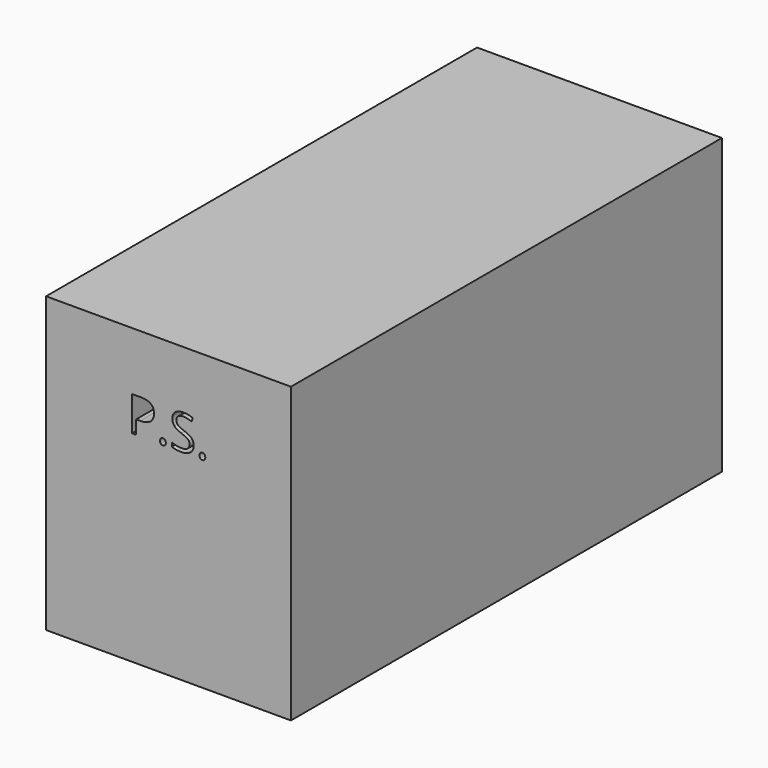
from build123d import *

# Parameters (mm, degrees)
F0_W     = 127
F0_H     = 152.4
F1_DEPTH = 279.4


with BuildPart() as f1:
    # F0 (on Front) → F1 (new body)
    with BuildSketch(Plane.XZ):
        with Locations((-63.5, 76.2)):
            Rectangle(F0_W, F0_H)
        with BuildLine():
            add(Edge.make_bspline(
                [(-77.7296743618, 122.2627671523), (-71.0107954947, 122.2627671523), (-71.0107954947, 117.0391527994)],
                knots=[0, 0, 0, 1, 1, 1], degree=2))
            add(Edge.make_bspline(
                [(-71.0107954947, 117.0391527994), (-71.0107954947, 114.3154951278), (-72.8690835458, 112.8496649544)],
                knots=[0, 0, 0, 1, 1, 1], degree=2))
            add(Edge.make_bspline(
                [(-72.8690835458, 112.8496649544), (-74.727371597, 111.383834781), (-78.1849255, 111.383834781)],
                knots=[0, 0, 0, 1, 1, 1], degree=2))
            Line((-78.1849255, 111.383834781), (-80.2963488823, 111.383834781))
            Line((-80.2963488823, 111.383834781), (-80.2963488823, 104.3313667178))
            Line((-80.2963488823, 104.3313667178), (-82.3803002131, 104.3313667178))
            Line((-82.3803002131, 104.3313667178), (-82.3803002131, 122.2627671523))
            Line((-82.3803002131, 122.2627671523), (-77.7296743618, 122.2627671523))
        make_face(mode=Mode.SUBTRACT)
        with BuildLine():
            add(Edge.make_bspline(
                [(-67.4492402541, 104.3608010586), (-67.8593587363, 104.7473720682), (-67.8593587363, 105.6304022932)],
                knots=[0, 0, 0, 1, 1, 1], degree=2))
            add(Edge.make_bspline(
                [(-67.8593587363, 105.6304022932), (-67.8593587363, 106.4545638365), (-67.4845614631, 106.876456055)],
                knots=[0, 0, 0, 1, 1, 1], degree=2))
            add(Edge.make_bspline(
                [(-67.4845614631, 106.876456055), (-67.1097641898, 107.2983482736), (-66.4111891674, 107.2983482736)],
                knots=[0, 0, 0, 1, 1, 1], degree=2))
            add(Edge.make_bspline(
                [(-66.4111891674, 107.2983482736), (-65.7008404087, 107.2983482736), (-65.3024956628, 106.876456055)],
                knots=[0, 0, 0, 1, 1, 1], degree=2))
            add(Edge.make_bspline(
                [(-65.3024956628, 106.876456055), (-64.9041509168, 106.4545638365), (-64.9041509168, 105.6304022932)],
                knots=[0, 0, 0, 1, 1, 1], degree=2))
            add(Edge.make_bspline(
                [(-64.9041509168, 105.6304022932), (-64.9041509168, 104.8337128013), (-65.3083825309, 104.4039714252)],
                knots=[0, 0, 0, 1, 1, 1], degree=2))
            add(Edge.make_bspline(
                [(-65.3083825309, 104.4039714252), (-65.712614145, 103.9742300491), (-66.4111891674, 103.9742300491)],
                knots=[0, 0, 0, 1, 1, 1], degree=2))
            add(Edge.make_bspline(
                [(-66.4111891674, 103.9742300491), (-67.0391217718, 103.9742300491), (-67.4492402541, 104.3608010586)],
                knots=[0, 0, 0, 1, 1, 1], degree=2))
        make_face(mode=Mode.SUBTRACT)
        with BuildLine():
            add(Edge.make_bspline(
                [(-51.5174127067, 112.0941835397), (-50.4577764368, 110.9403573791), (-50.4577764368, 109.1036545113)],
                knots=[0, 0, 0, 1, 1, 1], degree=2))
            add(Edge.make_bspline(
                [(-50.4577764368, 109.1036545113), (-50.4577764368, 106.7371335084), (-52.174779652, 105.4106258816)],
                knots=[0, 0, 0, 1, 1, 1], degree=2))
            add(Edge.make_bspline(
                [(-52.174779652, 105.4106258816), (-53.8917828671, 104.0841182548), (-56.8352169503, 104.0841182548)],
                knots=[0, 0, 0, 1, 1, 1], degree=2))
            add(Edge.make_bspline(
                [(-56.8352169503, 104.0841182548), (-60.0219749176, 104.0841182548), (-61.7409404222, 104.9082797981)],
                knots=[0, 0, 0, 1, 1, 1], degree=2))
            Line((-61.7409404222, 104.9082797981), (-61.7409404222, 106.9176641322))
            add(Edge.make_bspline(
                [(-61.7409404222, 106.9176641322), (-60.6342092069, 106.4545638365), (-59.3351736316, 106.1837679008)],
                knots=[0, 0, 0, 1, 1, 1], degree=2))
            add(Edge.make_bspline(
                [(-59.3351736316, 106.1837679008), (-58.0361380562, 105.9129719652), (-56.7606499535, 105.9129719652)],
                knots=[0, 0, 0, 1, 1, 1], degree=2))
            add(Edge.make_bspline(
                [(-56.7606499535, 105.9129719652), (-54.6766986226, 105.9129719652), (-53.6209869315, 106.7037745888)],
                knots=[0, 0, 0, 1, 1, 1], degree=2))
            add(Edge.make_bspline(
                [(-53.6209869315, 106.7037745888), (-52.5652752403, 107.4945772125), (-52.5652752403, 108.9074255724)],
                knots=[0, 0, 0, 1, 1, 1], degree=2))
            add(Edge.make_bspline(
                [(-52.5652752403, 108.9074255724), (-52.5652752403, 109.8375507427), (-52.9400725136, 110.4321244275)],
                knots=[0, 0, 0, 1, 1, 1], degree=2))
            add(Edge.make_bspline(
                [(-52.9400725136, 110.4321244275), (-53.3148697868, 111.0266981123), (-54.1920131436, 111.5310064852)],
                knots=[0, 0, 0, 1, 1, 1], degree=2))
            add(Edge.make_bspline(
                [(-54.1920131436, 111.5310064852), (-55.0691565004, 112.0353148581), (-56.8587644229, 112.67109662)],
                knots=[0, 0, 0, 1, 1, 1], degree=2))
            add(Edge.make_bspline(
                [(-56.8587644229, 112.67109662), (-59.3587211042, 113.5659005813), (-60.4320933999, 114.7923314493)],
                knots=[0, 0, 0, 1, 1, 1], degree=2))
            add(Edge.make_bspline(
                [(-60.4320933999, 114.7923314493), (-61.5054656955, 116.0187623173), (-61.5054656955, 117.9928254423)],
                knots=[0, 0, 0, 1, 1, 1], degree=2))
            add(Edge.make_bspline(
                [(-61.5054656955, 117.9928254423), (-61.5054656955, 120.0650030369), (-59.9493702102, 121.2914339048)],
                knots=[0, 0, 0, 1, 1, 1], degree=2))
            add(Edge.make_bspline(
                [(-59.9493702102, 121.2914339048), (-58.3932747249, 122.5178647728), (-55.8266002045, 122.5178647728)],
                knots=[0, 0, 0, 1, 1, 1], degree=2))
            add(Edge.make_bspline(
                [(-55.8266002045, 122.5178647728), (-53.153962057, 122.5178647728), (-50.9091029962, 121.5367200784)],
                knots=[0, 0, 0, 1, 1, 1], degree=2))
            Line((-50.9091029962, 121.5367200784), (-51.5605830733, 119.7235646832))
            add(Edge.make_bspline(
                [(-51.5605830733, 119.7235646832), (-53.7818946614, 120.6536898535), (-55.8776197286, 120.6536898535)],
                knots=[0, 0, 0, 1, 1, 1], degree=2))
            add(Edge.make_bspline(
                [(-55.8776197286, 120.6536898535), (-57.5337919727, 120.6536898535), (-58.4658794323, 119.9433410948)],
                knots=[0, 0, 0, 1, 1, 1], degree=2))
            add(Edge.make_bspline(
                [(-58.4658794323, 119.9433410948), (-59.397966892, 119.232992336), (-59.397966892, 117.9692779697)],
                knots=[0, 0, 0, 1, 1, 1], degree=2))
            add(Edge.make_bspline(
                [(-59.397966892, 117.9692779697), (-59.397966892, 117.0391527994), (-59.054566249, 116.4426168252)],
                knots=[0, 0, 0, 1, 1, 1], degree=2))
            add(Edge.make_bspline(
                [(-59.054566249, 116.4426168252), (-58.7111656059, 115.846080851), (-57.8948532202, 115.3496216357)],
                knots=[0, 0, 0, 1, 1, 1], degree=2))
            add(Edge.make_bspline(
                [(-57.8948532202, 115.3496216357), (-57.0785408345, 114.8531624203), (-55.3988211177, 114.2527018674)],
                knots=[0, 0, 0, 1, 1, 1], degree=2))
            add(Edge.make_bspline(
                [(-55.3988211177, 114.2527018674), (-52.5770489767, 113.2480097003), (-51.5174127067, 112.0941835397)],
                knots=[0, 0, 0, 1, 1, 1], degree=2))
        make_face(mode=Mode.SUBTRACT)
        with BuildLine():
            add(Edge.make_bspline(
                [(-46.9786373505, 104.3608010586), (-47.3887558328, 104.7473720682), (-47.3887558328, 105.6304022932)],
                knots=[0, 0, 0, 1, 1, 1], degree=2))
            add(Edge.make_bspline(
                [(-47.3887558328, 105.6304022932), (-47.3887558328, 106.4545638365), (-47.0139585595, 106.876456055)],
                knots=[0, 0, 0, 1, 1, 1], degree=2))
            add(Edge.make_bspline(
                [(-47.0139585595, 106.876456055), (-46.6391612863, 107.2983482736), (-45.9405862639, 107.2983482736)],
                knots=[0, 0, 0, 1, 1, 1], degree=2))
            add(Edge.make_bspline(
                [(-45.9405862639, 107.2983482736), (-45.2302375052, 107.2983482736), (-44.8318927592, 106.876456055)],
                knots=[0, 0, 0, 1, 1, 1], degree=2))
            add(Edge.make_bspline(
                [(-44.8318927592, 106.876456055), (-44.4335480133, 106.4545638365), (-44.4335480133, 105.6304022932)],
                knots=[0, 0, 0, 1, 1, 1], degree=2))
            add(Edge.make_bspline(
                [(-44.4335480133, 105.6304022932), (-44.4335480133, 104.8337128013), (-44.8377796274, 104.4039714252)],
                knots=[0, 0, 0, 1, 1, 1], degree=2))
            add(Edge.make_bspline(
                [(-44.8377796274, 104.4039714252), (-45.2420112415, 103.9742300491), (-45.9405862639, 103.9742300491)],
                knots=[0, 0, 0, 1, 1, 1], degree=2))
            add(Edge.make_bspline(
                [(-45.9405862639, 103.9742300491), (-46.5685188683, 103.9742300491), (-46.9786373505, 104.3608010586)],
                knots=[0, 0, 0, 1, 1, 1], degree=2))
        make_face(mode=Mode.SUBTRACT)
    extrude(amount=F1_DEPTH)


solid = f1.part
